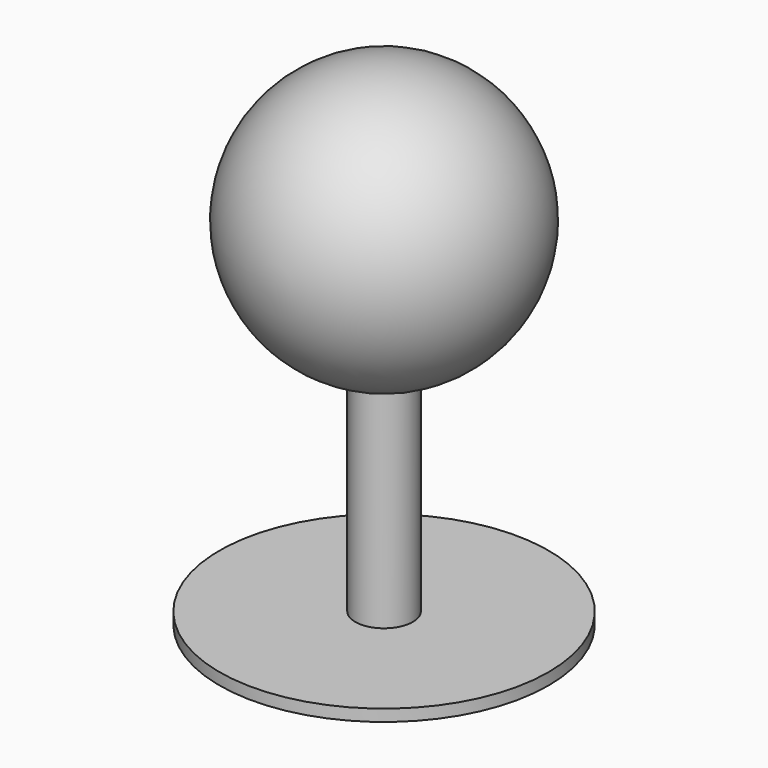
from build123d import *

# Parameters (mm, degrees)
F0_R     = 15.380407463
F1_DEPTH = 1.1
F2_R     = 2.6884833656
F3_DEPTH = 32.2


with BuildPart() as f1:
    # F0 (on Top) → F1 (new body)
    with BuildSketch(Plane.XY):
        Circle(F0_R)
    extrude(amount=F1_DEPTH)

    # F2 (on face) → F3 (join)
    with BuildSketch(Plane.XY.offset(1.1)):
        Circle(F2_R)
    extrude(amount=F3_DEPTH)

    # F4 (on face) → F5 (revolve)
    with BuildSketch(Plane.XY.offset(33.3)):
        with BuildLine():
            Line((0, 2.6884833656), (0, 12.7))
            ThreePointArc((0, 12.7), (-12.7, 0), (0, -12.7))
            Line((0, -12.7), (0, -2.6884833656))
            ThreePointArc((0, -2.6884833656), (-2.6884833656, 0), (0, 2.6884833656))
        make_face()
    revolve(axis=Axis((0, 0, 33.3), (0, -1, 0)))


solid = f1.part
